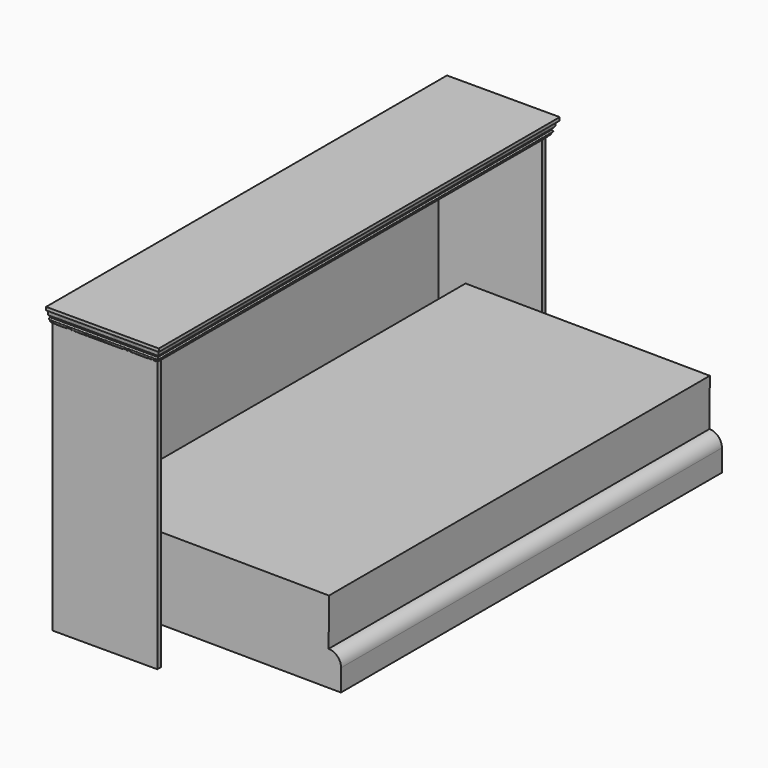
from build123d import *

# Parameters (mm, degrees)
F2_DEPTH = 1930.4
F0_W     = 419.1
F0_H     = 1143
F3_DEPTH = 19.05
F4_W     = 419.1
F4_H     = 1143
F5_DEPTH = 19.05
F6_W     = 419.1
F6_H     = 1968.5
F7_DEPTH = 25.4
F8_W     = 1968.5
F8_H     = 1168.4
F9_DEPTH = 6.35


with BuildPart() as f2:
    # F1 (on face) → F2 (new body)
    with BuildSketch(Plane.XZ):
        with BuildLine():
            Line((108.6065509819, 344.4319603753), (89.5570616523, 344.5714461484))
            Line((89.5570616523, 344.5714461484), (88.1622039216, 154.0765528523))
            Line((88.1622039216, 154.0765528523), (1148.5837766035, 146.3118448179))
            Line((1148.5837766035, 146.3118448179), (1149.2347102111, 235.2094616894))
            ThreePointArc((1149.2347102111, 235.2094616894), (1134.6191504498, 271.2384684099), (1098.8080340604, 286.3800619632))
            Line((1098.8080340604, 286.3800619633), (1100.2028917911, 476.8749552594))
            Line((1100.2028917911, 476.8749552594), (109.6294466511, 484.1282154592))
            Line((109.6294466511, 484.1282154592), (108.6065509819, 344.4319603753))
        make_face()
    extrude(amount=F2_DEPTH)

    # F0 (on Front) → F3 (join)
    with BuildSketch(Plane.XZ):
        with Locations((209.55, 571.5)):
            Rectangle(F0_W, F0_H)
    extrude(amount=-F3_DEPTH)

    # F4 (on face) → F5 (join)
    with BuildSketch(Plane.XZ.offset(1930.4)):
        with Locations((209.55, 571.5)):
            Rectangle(F4_W, F4_H)
    extrude(amount=F5_DEPTH)

    # F6 (on face) → F7 (join)
    with BuildSketch(Plane.XY.offset(1143)):
        with Locations((209.55, -965.2)):
            Rectangle(F6_W, F6_H)
    extrude(amount=F7_DEPTH)

    # F8 (on face) → F9 (join)
    with BuildSketch(Plane(origin=(0, 0, 0), x_dir=(0, -1, 0), z_dir=(-1, 0, 0))):
        with Locations((965.2, 584.2)):
            Rectangle(F8_W, F8_H)
    extrude(amount=F9_DEPTH)

    # F11: sweep along a path in F11_path
    with BuildLine(Plane(origin=(-6.35, -1949.45, 1168.4), x_dir=(0, -1, 0), z_dir=(0, 0, -1))) as f11_path:
        Line((0, 0), (0, -425.45))
        Line((0, -425.45), (-1968.5, -425.45))
        Line((-1968.5, -425.45), (-1968.5, 0))
    # F10 (on face) → F11 (sweep)
    with BuildSketch(Plane(origin=(-6.35, 0, 0), x_dir=(0, -1, 0), z_dir=(-1, 0, 0))):
        with BuildLine():
            Line((1981.2, 1168.4), (1949.45, 1168.4))
            Line((1949.45, 1168.4), (1949.45, 1098.55))
            add(Edge.make_bspline(
                [(1962.15, 1111.25), (1962.1416161237, 1106.9891487415), (1957.1774713092, 1106.9528415694), (1954.0118440023, 1102.7857432431), (1953.9768222515, 1098.7964263007), (1949.45, 1098.55)],
                knots=[0, 0, 0, 0, 0.3590021576, 0.6464061804, 1, 1, 1, 1], degree=3))
            Line((1962.15, 1111.25), (1962.15, 1115.9953590012))
            ThreePointArc((1962.15, 1115.9953590012), (1966.7801046171, 1119.7160482407), (1962.15, 1123.4367374802))
            Line((1962.15, 1123.4367374802), (1962.15, 1128.5167374802))
            add(Edge.make_bspline(
                [(1981.2, 1155.7), (1974.85, 1155.2496847948), (1971.007321351, 1148.1964123857), (1973.3363183206, 1136.7566982676), (1966.6215965457, 1130.655364811), (1962.15, 1128.5167374802)],
                knots=[0, 0, 0, 0, 0.3355358805, 0.6499518775, 1, 1, 1, 1], degree=3))
            Line((1981.2, 1155.7), (1981.2, 1168.4))
        make_face()
    sweep(path=f11_path.line, transition=Transition.RIGHT)


solid = f2.part
